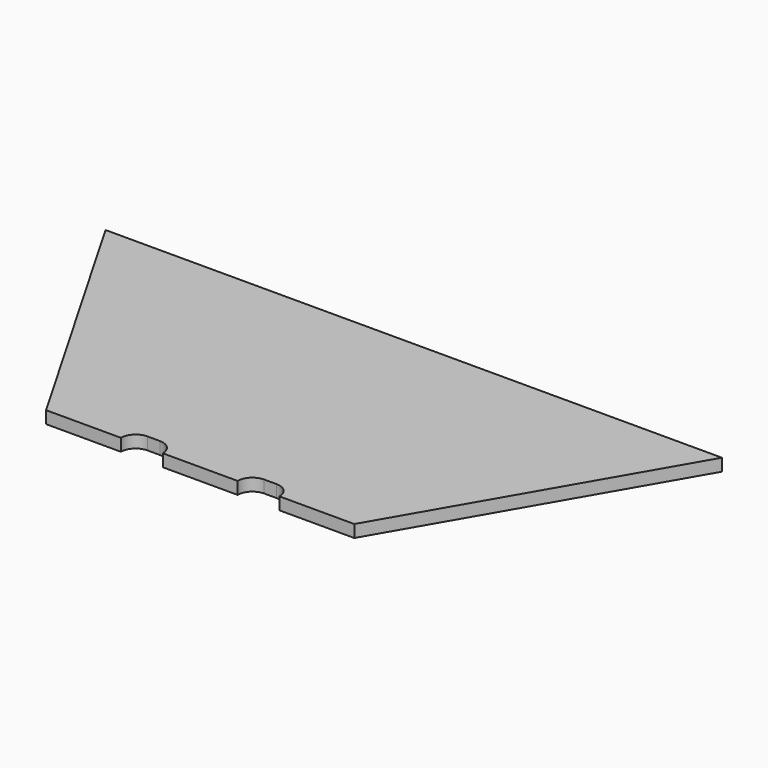
from build123d import *

# Parameters (mm, degrees)
F1_DEPTH = 0.5
F3_DEPTH = 0.501
F5_DEPTH = 0.501


with BuildPart() as f1:
    # F0 (on Top) → F1 (new body)
    with BuildSketch(Plane.XY):
        Polygon((6.25, -10.825318), (12.5, 0), (6.25, 10.825318), (-6.25, 10.825318), (-12.5, 0), (-6.25, -10.825318), align=None)
    extrude(amount=F1_DEPTH)

    # F2 (on face) → F3 (cut, through all)
    with BuildSketch(Plane.XY.offset(0.5)):
        with BuildLine():
            ThreePointArc((3.216667, -10.825318), (3.040931, -10.401053), (2.616667, -10.225318))
            Line((2.616667, -10.225318), (2.116667, -10.225318))
            ThreePointArc((2.116667, -10.225318), (1.692403, -10.401053), (1.516667, -10.825318))
            Line((1.516667, -10.825318), (3.216667, -10.825318))
        make_face()
        with BuildLine():
            Line((-3.216667, -10.825318), (-1.516667, -10.825318))
            ThreePointArc((-1.516667, -10.825318), (-1.692403, -10.401053), (-2.116667, -10.225318))
            Line((-2.116667, -10.225318), (-2.616667, -10.225318))
            ThreePointArc((-2.616667, -10.225318), (-3.040931, -10.401053), (-3.216667, -10.825318))
        make_face()
    extrude(amount=-F3_DEPTH, mode=Mode.SUBTRACT)

    # F4 (on face) → F5 (cut, through all)
    with BuildSketch(Plane.XY.offset(0.5)):
        Polygon((-6.25, 10.825318), (-12.5, 0), (12.5, 0), (6.25, 10.825318), align=None)
    extrude(amount=-F5_DEPTH, mode=Mode.SUBTRACT)


solid = f1.part
